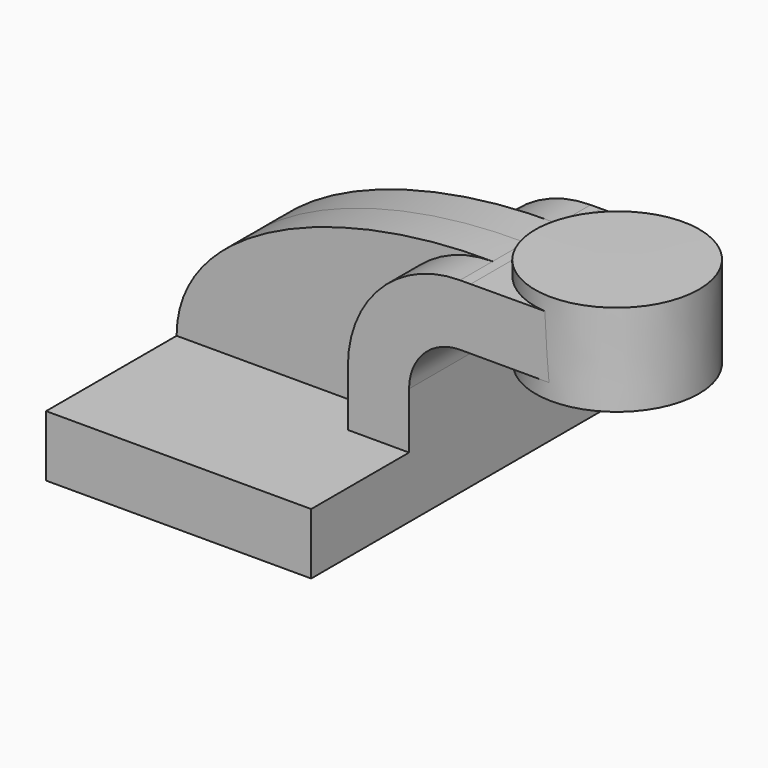
from build123d import *

# Parameters (mm, degrees)
F1_DEPTH = 63.5
F2_DEPTH = 25.4
F3_DEPTH = 12.7


with BuildPart() as f1:
    # F0 (on Front) → F1 (new body, symmetric)
    with BuildSketch(Plane.XZ):
        Polygon((-41.275, -9.525), (41.275, -9.525), (41.275, 9.525), (22.225, 9.525), (-41.275, 9.525), align=None)
    extrude(amount=F1_DEPTH, both=True)

    # F0 (on Front) → F2 (join, symmetric)
    with BuildSketch(Plane.XZ):
        with BuildLine():
            Line((22.225, 9.525), (41.275, 9.525))
            Line((41.275, 9.525), (41.275, 27.0002))
            ThreePointArc((41.275, 27.0002), (45.9246798487, 38.2255201513), (57.15, 42.8752))
            Line((57.15, 42.8752), (60.4529731631, 42.8752))
            Line((60.4529731631, 42.8752), (60.4529731631, 61.938414402))
            Line((60.4529731631, 61.938414402), (57.15, 61.9252))
            ThreePointArc((57.15, 61.9252), (32.4542956671, 51.6959043329), (22.225, 27.0002))
            Line((22.225, 27.0002), (22.225, 9.525))
        make_face()
        Polygon((85.7571963739, 62.0396505186), (60.4529731631, 61.938414402), (60.4529731631, 42.8752), (85.8338687354, 42.8752), align=None)
    extrude(amount=F2_DEPTH, both=True)

    # F0 (on Front) → F3 (join, symmetric)
    with BuildSketch(Plane.XZ):
        with BuildLine():
            add(Edge.make_bspline(
                [(-41.275, 9.525), (-41.2464402616, 42.1838574111), (8.0350227654, 62.539242208), (57.15, 61.9252)],
                knots=[0, 0, 0, 0, 111.5045361635, 111.5045361635, 111.5045361635, 111.5045361635], degree=3))
            Line((-41.275, 9.525), (22.225, 9.525))
            Line((22.225, 9.525), (22.225, 27.0002))
            ThreePointArc((22.225, 27.0002), (32.4542956671, 51.6959043329), (57.15, 61.9252))
        make_face()
    extrude(amount=F3_DEPTH, both=True)

    # F0 (on Front) → F4 (revolve)
    with BuildSketch(Plane.XZ):
        Polygon((85.7386514544, 66.675), (85.7571963739, 62.0396505186), (85.8338687354, 42.8752), (85.8529731631, 38.1), (111.2529731631, 38.1), (111.2529731631, 66.675), align=None)
    revolve(axis=Axis((85.7958123088, 0, 52.3875), (0.0040007277, 0, -0.9999919971)))


solid = f1.part
